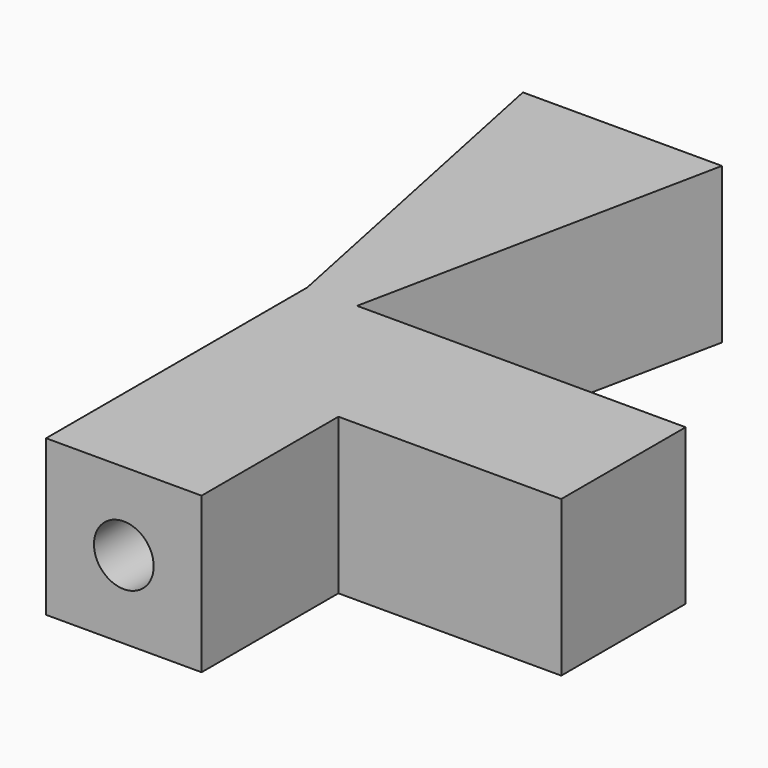
from build123d import *

# Parameters (mm, degrees)
F1_DEPTH = 3.125
F2_R     = 0.6
F3_DEPTH = 5


with BuildPart() as f1:
    # F0 (on Top) → F1 (new body)
    with BuildSketch(Plane.XY):
        Polygon((-7.604167, 6.5625), (-7.604167, 0), (-4.479167, 0), (-4.479167, 3.4375), (0, 3.4375), (0, 6.5625), (-6.604167, 6.5625), align=None)
        Polygon((-9.104167, 13.854167), (-7.604167, 6.5625), (-6.604167, 6.5625), (-5.104167, 13.854167), align=None)
    extrude(amount=F1_DEPTH)

    # F2 (on face) → F3 (cut)
    with BuildSketch(Plane.XZ):
        with Locations((-6.041667, 1.5625)):
            Circle(F2_R)
    extrude(amount=-F3_DEPTH, mode=Mode.SUBTRACT)


solid = f1.part
